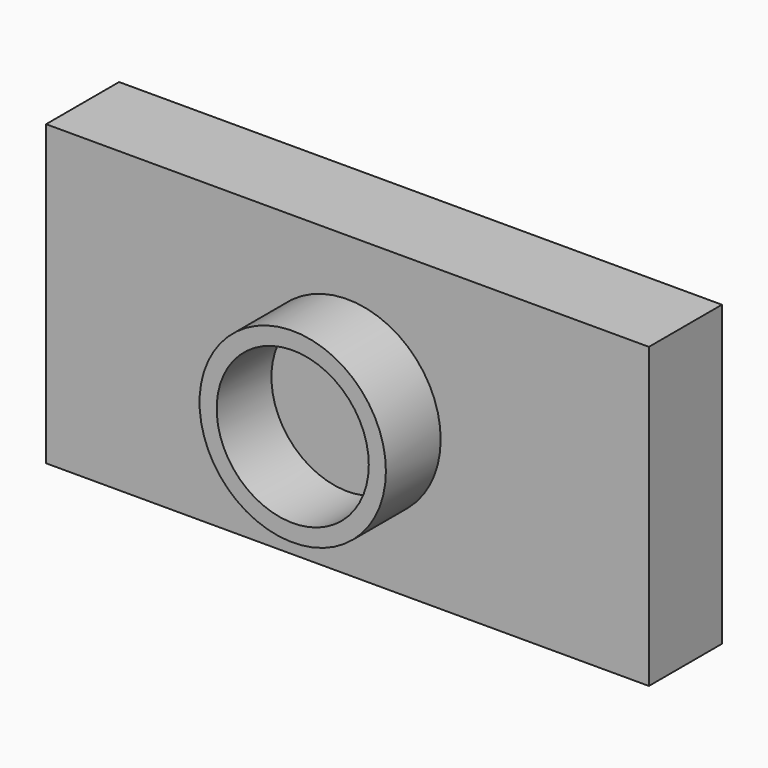
from build123d import *

# Parameters (mm, degrees)
F0_W     = 15.85
F0_H     = 7.85
F1_DEPTH = 1.2
F2_R     = 2.45
F2_R_2   = 2
F3_DEPTH = 1.8
F4_W     = 15.85
F4_H     = 7.85
F4_W_2   = 12.95
F4_H_2   = 4.95
F4_R     = 1.5
F5_DEPTH = 1.2


with BuildPart() as f1:
    # F0 (on Front) → F1 (new body)
    with BuildSketch(Plane.XZ):
        Rectangle(F0_W, F0_H)
    extrude(amount=F1_DEPTH)

    # F2 (on face) → F3 (join)
    with BuildSketch(Plane.XZ.offset(1.2)):
        Circle(F2_R)
        Circle(F2_R_2, mode=Mode.SUBTRACT)
    extrude(amount=F3_DEPTH)

    # F4 (on face) → F5 (join)
    with BuildSketch(Plane(origin=(0, 0, 0), x_dir=(-1, 0, 0), z_dir=(0, 1, 0))):
        Rectangle(F4_W, F4_H)
        Rectangle(F4_W_2, F4_H_2, mode=Mode.SUBTRACT)
        Circle(F4_R)
    extrude(amount=F5_DEPTH)


solid = f1.part
